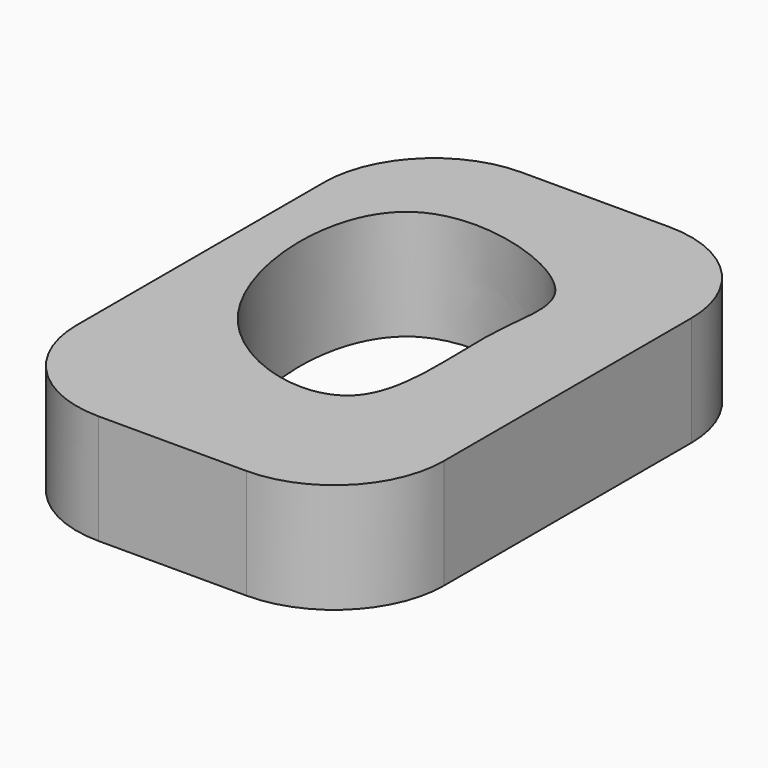
from build123d import *

# Parameters (mm, degrees)
F0_W     = 85.0064009428
F0_H     = 122.2794502974
F1_DEPTH = 12.7
F3_DEPTH = 25.4
F4_R     = 25.4


with BuildPart() as f1:
    # F0 (on Top) → F1 (new body, symmetric)
    with BuildSketch(Plane.XY):
        Rectangle(F0_W, F0_H)
    extrude(amount=F1_DEPTH, both=True)

    # F2 (on face) → F3 (cut)
    with BuildSketch(Plane.XY.offset(12.7)):
        with BuildLine():
            add(Edge.make_bspline(
                [(15.8021897078, 29.7542437911), (8.7349150661, 37.4751844421), (-36.540654392, 51.889146526), (-32.4468782742, -22.7903155442), (23.1560198555, -37.3585935892), (15.5628704988, 9.8626539685), (20.9863491185, 24.09059137), (15.8021897078, 29.7542437911)],
                knots=[0, 0, 0, 0, 0.2086208524, 0.4477187277, 0.6490534164, 0.8469673516, 1, 1, 1, 1], degree=3))
        make_face()
    extrude(amount=-F3_DEPTH, mode=Mode.SUBTRACT)

    # F4
    f4_edges = [f1.edges().sort_by_distance(p)[0] for p in [
        (-42.5032, -61.139725, 0),
        (42.5032, -61.139725, 0),
        (42.5032, 61.139725, 0),
        (-42.5032, 61.139725, 0),
    ]]
    fillet(f4_edges, radius=F4_R)


solid = f1.part
